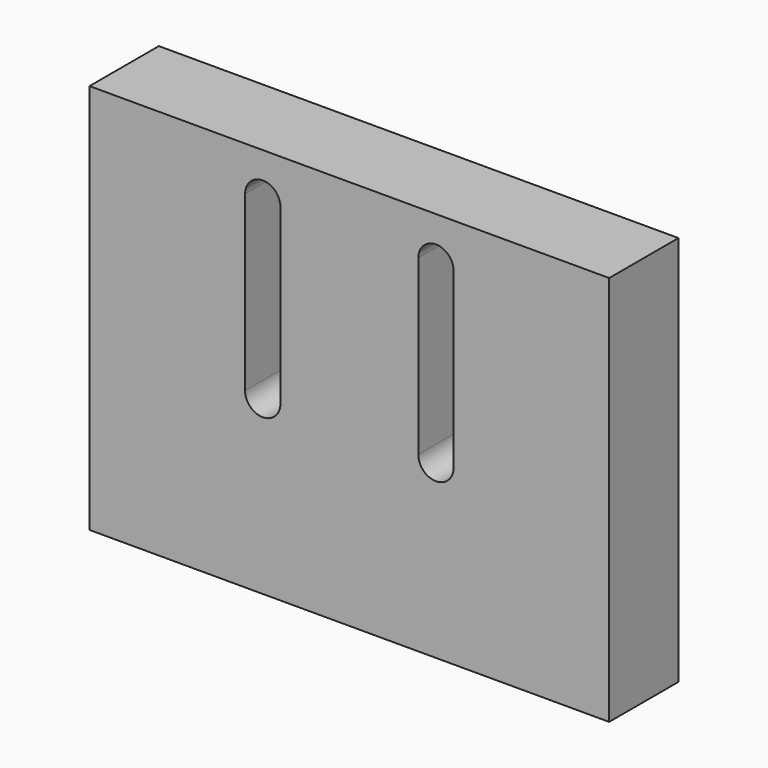
from build123d import *

# Parameters (mm, degrees)
F0_W     = 38.1
F0_H     = 57.3024
F1_DEPTH = 12.7


with BuildPart() as f1:
    # F0 (on Front) → F1 (new body)
    with BuildSketch(Plane.XZ):
        with Locations((-19.05, 28.6512)):
            Rectangle(F0_W, F0_H)
        with BuildLine():
            ThreePointArc((-6.3221496252, 50.8), (-7.3520700194, 47.3248567906), (-10.1092, 44.972073202))
            Line((-10.1092, 44.972073202), (-10.1092, 31.1974352398))
            ThreePointArc((-10.1092, 31.1974352398), (-7.3720510513, 28.8547735092), (-6.35, 25.4))
            ThreePointArc((-6.35, 25.4), (-16.1547735092, 20.0720510513), (-15.2908, 31.1974352398))
            Line((-15.2908, 31.1974352398), (-15.2908, 44.972073202))
            ThreePointArc((-15.2908, 44.972073202), (-16.1751432094, 56.1479299806), (-6.3221496252, 50.8))
        make_face(mode=Mode.SUBTRACT)
        with BuildLine():
            ThreePointArc((-8.7376, 50.8), (-9.0967792407, 49.1515419569), (-10.1092, 47.8019391067))
            Line((-10.1092, 47.8019391067), (-10.1092, 44.972073202))
            ThreePointArc((-10.1092, 44.972073202), (-7.3520700194, 47.3248567906), (-6.3221496252, 50.8))
            ThreePointArc((-6.3221496252, 50.8), (-16.1751432094, 56.1479299806), (-15.2908, 44.972073202))
            Line((-15.2908, 44.972073202), (-15.2908, 47.8019391067))
            ThreePointArc((-15.2908, 47.8019391067), (-14.3484580431, 54.4032207593), (-8.7376, 50.8))
        make_face()
        with BuildLine():
            ThreePointArc((-15.2908, 50.8), (-12.7, 53.3908), (-10.1092, 50.8))
            Line((-10.1092, 50.8), (-10.1092, 47.8019391067))
            ThreePointArc((-10.1092, 47.8019391067), (-9.0967792407, 49.1515419569), (-8.7376, 50.8))
            ThreePointArc((-8.7376, 50.8), (-14.3484580431, 54.4032207593), (-15.2908, 47.8019391067))
            Line((-15.2908, 47.8019391067), (-15.2908, 50.8))
        make_face()
        with BuildLine():
            ThreePointArc((-8.7376, 25.4), (-9.0967792407, 27.0484580431), (-10.1092, 28.3980608933))
            Line((-10.1092, 28.3980608933), (-10.1092, 25.4))
            ThreePointArc((-10.1092, 25.4), (-12.7, 22.8092), (-15.2908, 25.4))
            Line((-15.2908, 25.4), (-15.2908, 28.3980608933))
            ThreePointArc((-15.2908, 28.3980608933), (-14.3484580431, 21.7967792407), (-8.7376, 25.4))
        make_face()
        with BuildLine():
            ThreePointArc((-6.35, 25.4), (-7.3720510513, 28.8547735092), (-10.1092, 31.1974352398))
            Line((-10.1092, 31.1974352398), (-10.1092, 28.3980608933))
            ThreePointArc((-10.1092, 28.3980608933), (-9.0967792407, 27.0484580431), (-8.7376, 25.4))
            ThreePointArc((-8.7376, 25.4), (-14.3484580431, 21.7967792407), (-15.2908, 28.3980608933))
            Line((-15.2908, 28.3980608933), (-15.2908, 31.1974352398))
            ThreePointArc((-15.2908, 31.1974352398), (-16.1547735092, 20.0720510513), (-6.35, 25.4))
        make_face()
        with Locations((19.05, 28.6512)):
            Rectangle(F0_W, F0_H)
        with BuildLine():
            Line((10.1092, 25.4), (10.1092, 50.8))
            ThreePointArc((10.1092, 50.8), (12.7, 53.3908), (15.2908, 50.8))
            Line((15.2908, 50.8), (15.2908, 25.4))
            ThreePointArc((15.2908, 25.4), (12.7, 22.8092), (10.1092, 25.4))
        make_face(mode=Mode.SUBTRACT)
    extrude(amount=F1_DEPTH)


solid = f1.part
